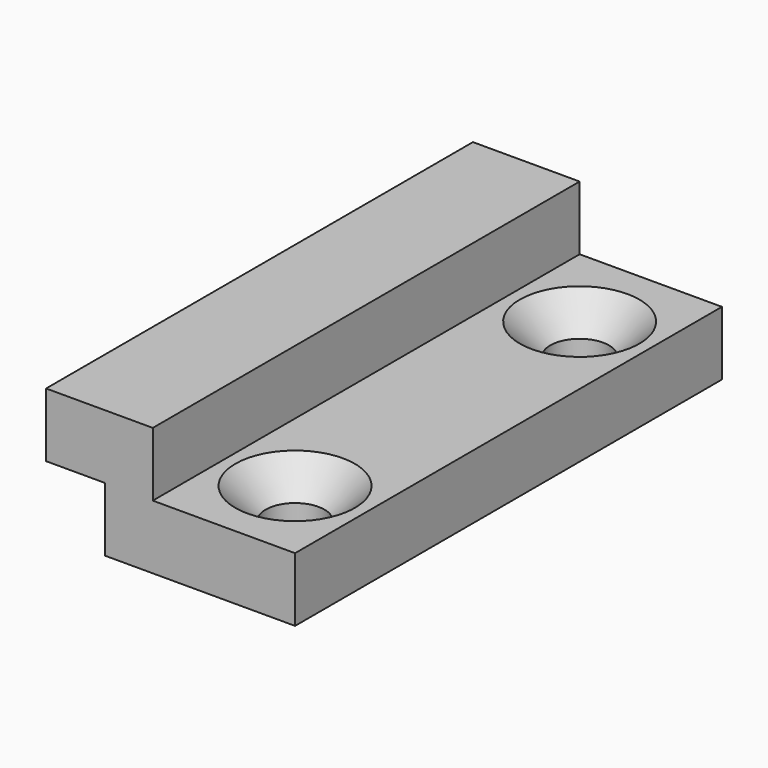
from build123d import *

# Parameters (mm, degrees)
F1_DEPTH       = 30
F3_D           = 3.3
F3_CSINK_D     = 6.72
F3_CSINK_ANGLE = 90
F4_W           = 3.6
F4_H           = 3.6
F5_DEPTH       = 3.3


with BuildPart() as f1:
    # F0 (on Front) → F1 (new body)
    with BuildSketch(Plane.XZ):
        Polygon((-4.7134831967, 0), (5.9865168033, 0), (5.9865168033, 3.6), (-2.0134831967, 3.6), (-2.0134831967, 7.2), (-8.0134831967, 7.2), (-8.0134831967, 3.6), (-4.7134831967, 3.6), align=None)
    extrude(amount=F1_DEPTH)

    # F3 (through all)
    with Locations(Plane.XY.offset(3.6)):
        with Locations((1.9865168033, -5), (1.9865168033, -25)):
            CounterSinkHole(F3_D / 2, F3_CSINK_D / 2, counter_sink_angle=F3_CSINK_ANGLE)

    # F4 (on face) → F5 (join, through all)
    with BuildSketch(Plane(origin=(-4.7134831967, 0, 0), x_dir=(0, -1, 0), z_dir=(-1, 0, 0))):
        with Locations((1.8, 1.8)):
            Rectangle(F4_W, F4_H)
    extrude(amount=F5_DEPTH)


solid = f1.part
